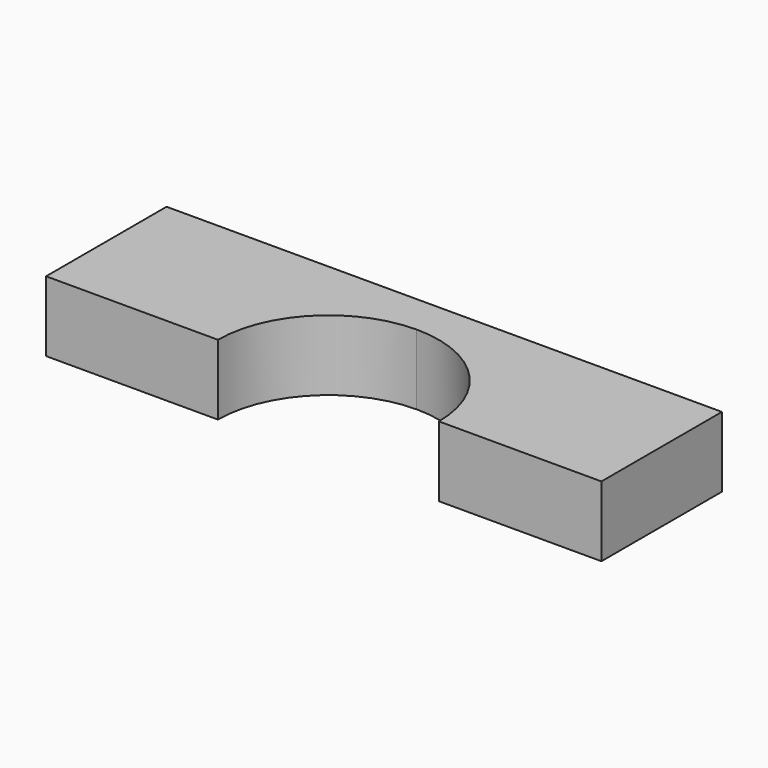
from build123d import *

# Parameters (mm, degrees)
F1_DEPTH = 7


with BuildPart() as f1:
    # F0 (on Top) → F1 (new body)
    with BuildSketch(Plane.XY):
        with BuildLine():
            ThreePointArc((-11, 0), (-7.778175, 7.778175), (0, 11))
            Line((0, 11), (0, 15))
            Line((0, 15), (-28.114114, 15))
            Line((-28.114114, 15), (-28.114114, 0))
            Line((-28.114114, 0), (-11, 0))
        make_face()
        with BuildLine():
            ThreePointArc((0, 11), (7.778175, 7.778175), (11, 0))
            Line((11, 0), (27.192341, 0))
            Line((27.192341, 0), (27.192341, 15))
            Line((27.192341, 15), (0, 15))
            Line((0, 15), (0, 11))
        make_face()
    extrude(amount=F1_DEPTH)


solid = f1.part
